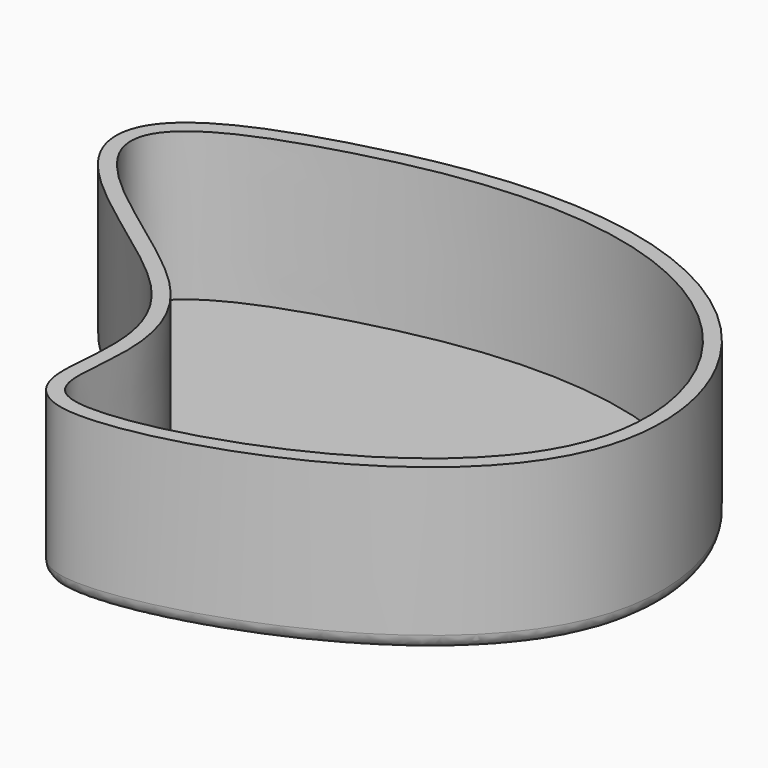
from build123d import *

# Parameters (mm, degrees)
PAD_DEPTH   = 10
THICKNESS_T = 1


with BuildPart() as part:
    # Sketch → Pad (new body)
    with BuildSketch(Plane.XY):
        with BuildLine():
            add(Edge.make_bspline(
                [(-11.505689, 18.471755), (10.20486, 23.525753), (28.835438, -4.24225), (-18.333916, -19.193415), (0, 0), (-36.014633, 12.667418), (-11.505689, 18.471755)],
                knots=[0, 0, 0, 0, 0.25, 0.5, 0.75, 1, 1, 1, 1], degree=3))
        make_face()
    extrude(amount=PAD_DEPTH)

    # Thickness
    thickness_openings = [part.faces().sort_by_distance(p)[0] for p in [
        (-1.642476, 4.935148, 10),
    ]]
    offset(amount=THICKNESS_T, openings=thickness_openings)


solid = part.part
